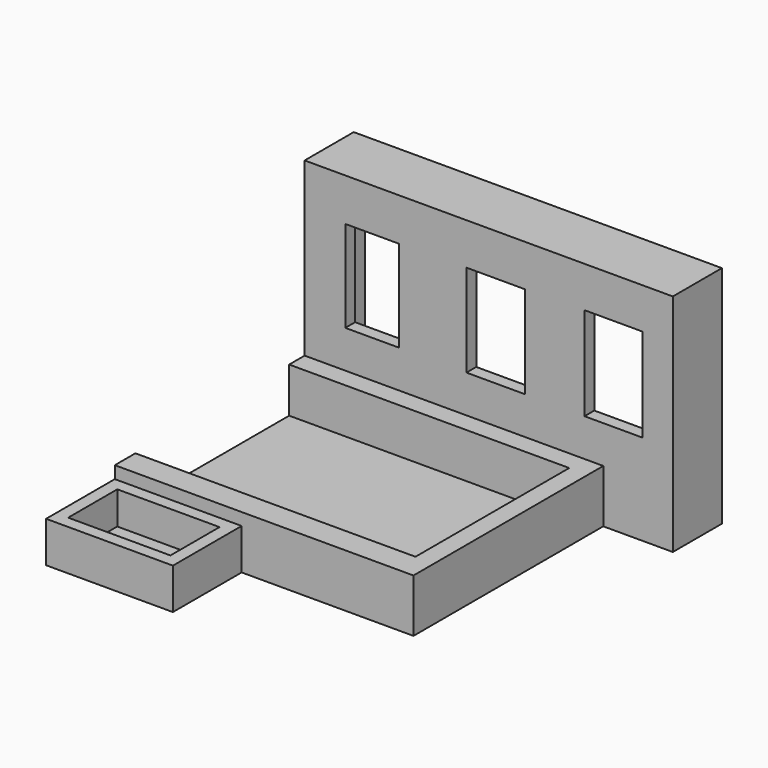
from build123d import *

# Parameters (mm, degrees)
F0_W      = 73
F0_H      = 58
F1_DEPTH  = 13
F2_W      = 63.252263
F2_H      = 46.978496
F3_DEPTH  = 11
F4_W      = 5.207941
F4_H      = 46.978496
F5_DEPTH  = 11
F6_W      = 90
F6_H      = 15
F7_DEPTH  = 55
F8_W      = 84.081179
F8_H      = 48.908066
F9_DEPTH  = 12
F10_W     = 31
F10_H     = 21
F11_DEPTH = 10
F12_W     = 25
F12_H     = 15
F13_DEPTH = 8
F14_W     = 13.124006
F14_H     = 22.36615
F14_W_2   = 14.341504
F14_H_2   = 22.587417
F14_W_3   = 14.118343
F14_H_3   = 22.820918
F15_DEPTH = 25


with BuildPart() as f1:
    # F0 (on Top) → F1 (new body)
    with BuildSketch(Plane.XY):
        with Locations((36.5, -29)):
            Rectangle(F0_W, F0_H)
    extrude(amount=F1_DEPTH)

    # F2 (on face) → F3 (cut)
    with BuildSketch(Plane.XY.offset(13)):
        with Locations((36.834072, -28.219316)):
            Rectangle(F2_W, F2_H)
    extrude(amount=-F3_DEPTH, mode=Mode.SUBTRACT)

    # F4 (on face) → F5 (cut)
    with BuildSketch(Plane.XY.offset(13)):
        with Locations((2.60397, -28.219316)):
            Rectangle(F4_W, F4_H)
    extrude(amount=-F5_DEPTH, mode=Mode.SUBTRACT)

    # F6 (on Top) → F7 (join)
    with BuildSketch(Plane.XY):
        with Locations((45, 7.5)):
            Rectangle(F6_W, F6_H)
    extrude(amount=F7_DEPTH)

    # F8 (on face) → F9 (cut)
    with BuildSketch(Plane(origin=(0, 15, 0), x_dir=(-1, 0, 0), z_dir=(0, 1, 0))):
        with Locations((-44.739444, 27.506275)):
            Rectangle(F8_W, F8_H)
    extrude(amount=-F9_DEPTH, mode=Mode.SUBTRACT)

    # F10 (on Top) → F11 (join)
    with BuildSketch(Plane.XY):
        with Locations((15.5, -68.5)):
            Rectangle(F10_W, F10_H)
    extrude(amount=F11_DEPTH)

    # F12 (on face) → F13 (cut)
    with BuildSketch(Plane.XY.offset(10)):
        with Locations((15.5, -68.5)):
            Rectangle(F12_W, F12_H)
    extrude(amount=-F13_DEPTH, mode=Mode.SUBTRACT)

    # F14 (on face) → F15 (cut)
    with BuildSketch(Plane.XZ):
        with Locations((16.504721, 33.388489)):
            Rectangle(F14_W, F14_H)
        with Locations((46.720475, 33.499122)):
            Rectangle(F14_W_2, F14_H_2)
        with Locations((75.470149, 33.615873)):
            Rectangle(F14_W_3, F14_H_3)
    extrude(amount=-F15_DEPTH, mode=Mode.SUBTRACT)


solid = f1.part
